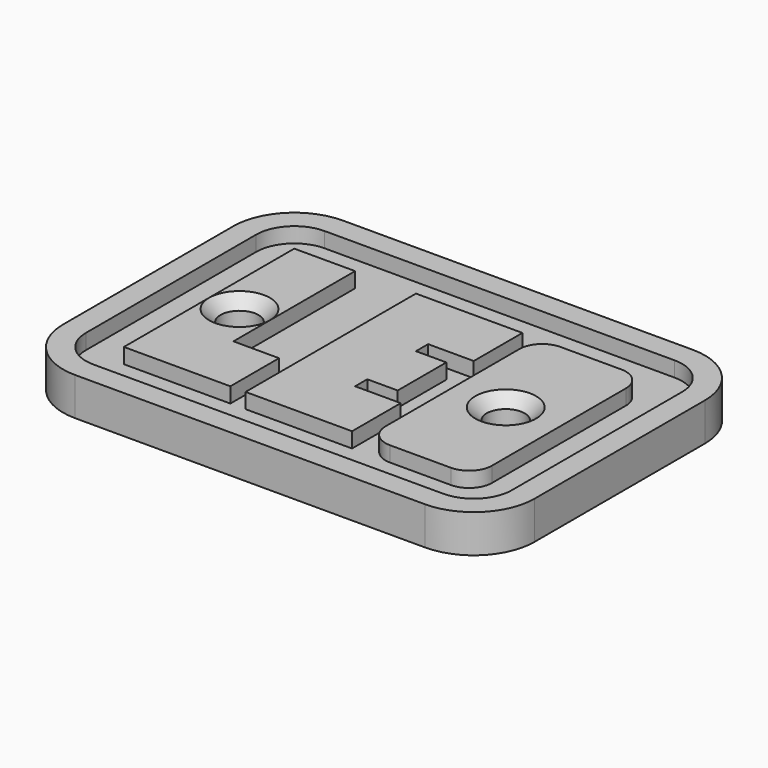
from build123d import *

# Parameters (mm, degrees)
PAD_DEPTH        = 3
PAD001_DEPTH     = 2
HOLE_D           = 5
HOLE_DEPTH       = 25
HOLE_CSINK_D     = 8
HOLE_CSINK_ANGLE = 90


with BuildPart() as part:
    # Sketch001 → Pad (new body)
    with BuildSketch(Plane.XY):
        with BuildLine():
            ThreePointArc((-21.5, 22), (-27.156854, 19.656854), (-29.5, 14))
            Line((-29.5, -14), (-29.5, 14))
            ThreePointArc((-29.5, -14), (-27.156854, -19.656854), (-21.5, -22))
            Line((24.5, -22), (-21.5, -22))
            ThreePointArc((24.5, -22), (30.156854, -19.656854), (32.5, -14))
            Line((32.5, 14), (32.5, -14))
            ThreePointArc((32.5, 14), (30.156854, 19.656854), (24.5, 22))
            Line((-21.5, 22), (24.5, 22))
        make_face()
    extrude(amount=-PAD_DEPTH)

    # Sketch → Pad001 (join)
    with BuildSketch(Plane.XY):
        with BuildLine():
            ThreePointArc((-21.5, 22), (-27.156854, 19.656854), (-29.5, 14))
            Line((-29.5, -14), (-29.5, 14))
            ThreePointArc((-29.5, -14), (-27.156854, -19.656854), (-21.5, -22))
            Line((24.5, -22), (-21.5, -22))
            ThreePointArc((24.5, -22), (30.156854, -19.656854), (32.5, -14))
            Line((32.5, 14), (32.5, -14))
            ThreePointArc((32.5, 14), (30.156854, 19.656854), (24.5, 22))
            Line((-21.5, 22), (24.5, 22))
        make_face()
        with BuildLine():
            ThreePointArc((-26.5, -14), (-25.035534, -17.535534), (-21.5, -19))
            Line((24.5, -19), (-21.5, -19))
            ThreePointArc((24.5, -19), (28.035534, -17.535534), (29.5, -14))
            Line((29.5, 14), (29.5, -14))
            ThreePointArc((29.5, 14), (28.035534, 17.535534), (24.5, 19))
            Line((-21.5, 19), (24.5, 19))
            ThreePointArc((-21.5, 19), (-25.035534, 17.535534), (-26.5, 14))
            Line((-26.5, -14), (-26.5, 14))
        make_face(mode=Mode.SUBTRACT)
        Polygon((-21.5, 14), (-21.5, -14), (-7.5, -14), (-7.5, -6), (-13.5, -6), (-13.5, 14), align=None)
        Polygon((8.5, 14), (-5.5, 14), (-5.5, -14), (8.5, -14), (8.5, -6), (2.5, -6), (2.5, -4), (6.5, -4), (6.5, 4), (2.5, 4), (2.5, 6), (8.5, 6), align=None)
        with BuildLine():
            Line((13.5, 14), (21.5, 14))
            ThreePointArc((24.5, 11), (23.62132, 13.12132), (21.5, 14))
            Line((24.5, 11), (24.5, -11))
            ThreePointArc((21.5, -14), (23.62132, -13.12132), (24.5, -11))
            Line((21.5, -14), (13.5, -14))
            ThreePointArc((10.5, -11), (11.37868, -13.12132), (13.5, -14))
            Line((10.5, -11), (10.5, 11))
            ThreePointArc((13.5, 14), (11.37868, 13.12132), (10.5, 11))
        make_face()
    extrude(amount=PAD001_DEPTH)

    # Hole
    with Locations(Plane.XY.offset(2)):
        with Locations((-17.5, 0), (17.5, 0)):
            CounterSinkHole(HOLE_D / 2, HOLE_CSINK_D / 2, depth=HOLE_DEPTH, counter_sink_angle=HOLE_CSINK_ANGLE)


solid = part.part
